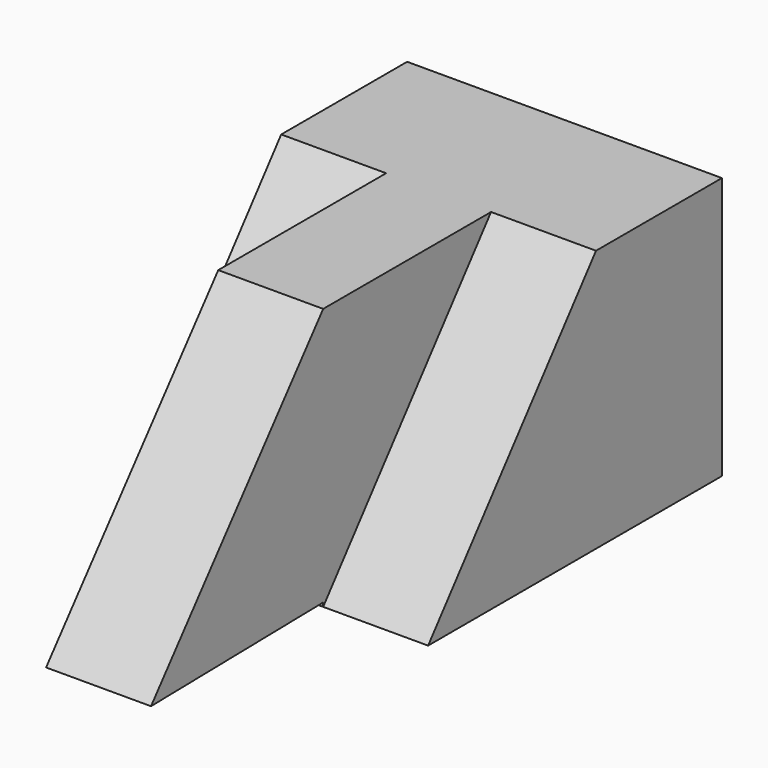
from build123d import *

# Parameters (mm, degrees)
F1_DEPTH = 63.5
F3_DEPTH = 25.4
F5_DEPTH = 25.4
F7_DEPTH = 25.4


with BuildPart() as f1:
    # F0 (on Top) → F1 (new body)
    with BuildSketch(Plane.XY):
        Polygon((31.054489, 67.379584), (-45.145511, 67.379584), (-45.145511, 29.279584), (-19.745511, 29.279584), (-19.745511, -21.520416), (5.654489, -21.520416), (5.654489, 29.279584), (31.054489, 29.279584), align=None)
    extrude(amount=F1_DEPTH)

    # F2 (on face) → F3 (join)
    with BuildSketch(Plane.YZ.offset(5.654489)):
        Polygon((29.279584, 0), (29.279584, 63.5), (-21.520416, 0), align=None)
    extrude(amount=F3_DEPTH)

    # F4 (on face) → F5 (join)
    with BuildSketch(Plane.YZ.offset(5.654489)):
        Polygon((-21.520416, 0.954785), (-21.520416, 63.5), (-73.614173, 0), align=None)
    extrude(amount=-F5_DEPTH)

    # F6 (on face) → F7 (join)
    with BuildSketch(Plane(origin=(-19.745511, 0, 0), x_dir=(0, -1, 0), z_dir=(-1, 0, 0))):
        Polygon((21.520416, 0), (-29.279584, 63.5), (-29.279584, 0), align=None)
    extrude(amount=F7_DEPTH)


solid = f1.part
